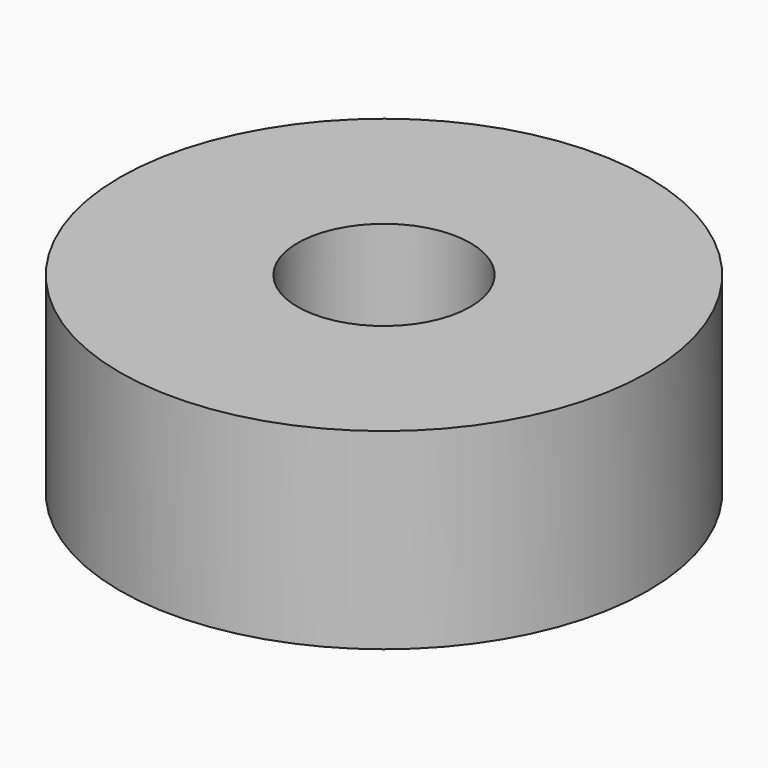
from build123d import *

# Parameters (mm, degrees)
CYLINDER015_R     = 0.9
CYLINDER015_DEPTH = 2
CYLINDER014_R     = 2.75
CYLINDER014_DEPTH = 2


with BuildPart() as faceanchorscrewhole:
    # Cylinder015 → Cylinder015 (new body)
    with BuildSketch(Plane.XY):
        Circle(CYLINDER015_R)
    extrude(amount=CYLINDER015_DEPTH)


with BuildPart() as faceanchor:
    # Cylinder014 → Cylinder014 (new body)
    with BuildSketch(Plane.XY):
        Circle(CYLINDER014_R)
    extrude(amount=CYLINDER014_DEPTH)

    # Cut015: cut FaceAnchorScrewHole
    add(faceanchorscrewhole.part, mode=Mode.SUBTRACT)


solid = faceanchor.part
